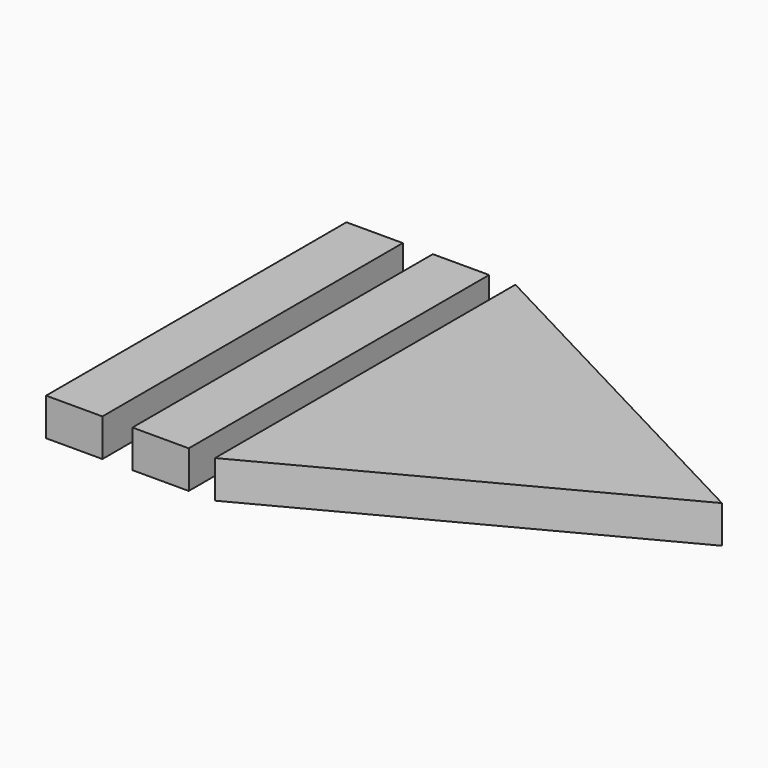
from build123d import *

# Parameters (mm, degrees)
SKETCH016_W  = 1.5
SKETCH016_H  = 10
PAD008_DEPTH = 1
PAD009_DEPTH = 1


with BuildPart() as body010:
    # Sketch016 → Pad008 (new body)
    with BuildSketch(Plane.XY):
        with Locations((-3.95, 0)):
            Rectangle(SKETCH016_W, SKETCH016_H)
    extrude(amount=PAD008_DEPTH)


with BuildPart() as body010_1:
    # Body010 placement: moved
    add(body010.part.moved(Location((0, 0, 2))))


with BuildPart() as pause:
    # Part__Mirroring: instance of Body010
    add(body010_1.part.mirror(Plane(origin=(-5.1, 0, 0), x_dir=(0, -1, 0), z_dir=(1, 0, 0))))


with BuildPart() as obj1:
    # Sketch015 → Pad009 (new body)
    with BuildSketch(Plane.XY):
        Polygon((-4.5, 5), (5, 0), (-4.5, -5), align=None)
    extrude(amount=PAD009_DEPTH)


with BuildPart() as obj1_1:
    # Body011 placement: moved
    add(obj1.part.moved(Location((2, 0, 2))))


with BuildPart() as obj2:
    # Fusion004 base: copy of Body010
    add(body010_1.part)

    # Fusion004: union Pause, obj1
    add(pause.part)
    add(obj1_1.part)


solid = obj2.part
